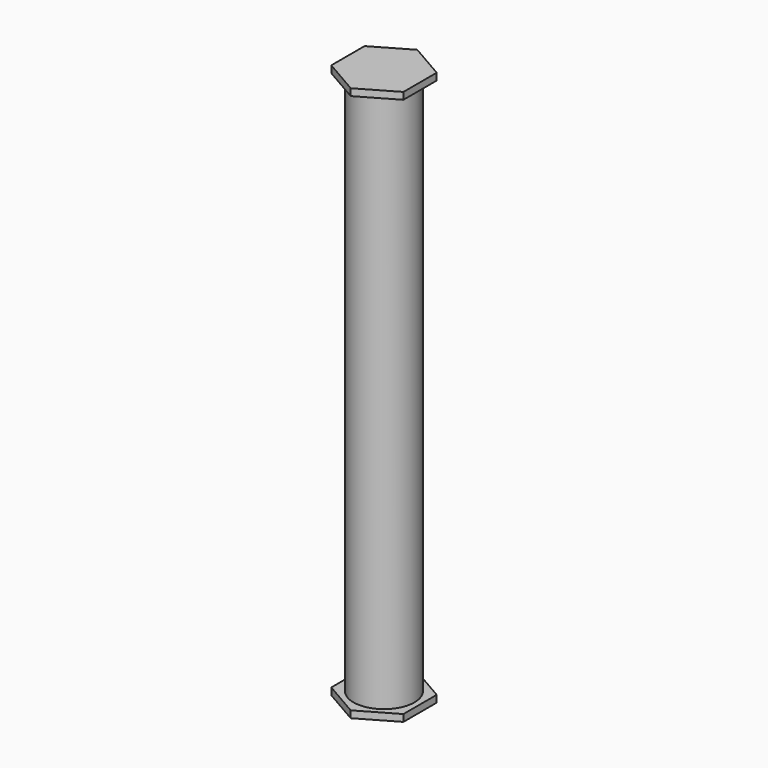
from build123d import *

# Parameters (mm, degrees)
F0_R     = 110
F1_DEPTH = 2000
F3_DEPTH = 25
F5_DEPTH = 25


with BuildPart() as f1:
    # F0 (on Top) → F1 (new body)
    with BuildSketch(Plane.XY):
        Circle(F0_R)
    extrude(amount=F1_DEPTH)

    # F2 (on face) → F3 (join)
    with BuildSketch(Plane(origin=(0, 0, 0), x_dir=(1, 0, 0), z_dir=(0, 0, -1))):
        Polygon((130, -75.055535), (130, 75.055535), (0, 150.11107), (-130, 75.055535), (-130, -75.055535), (0, -150.11107), align=None)
    extrude(amount=-F3_DEPTH)

    # F4 (on face) → F5 (join)
    with BuildSketch(Plane.XY.offset(2000)):
        Polygon((130, -75.055535), (130, 75.055535), (0, 150.11107), (-130, 75.055535), (-130, -75.055535), (0, -150.11107), align=None)
    extrude(amount=-F5_DEPTH)


solid = f1.part
